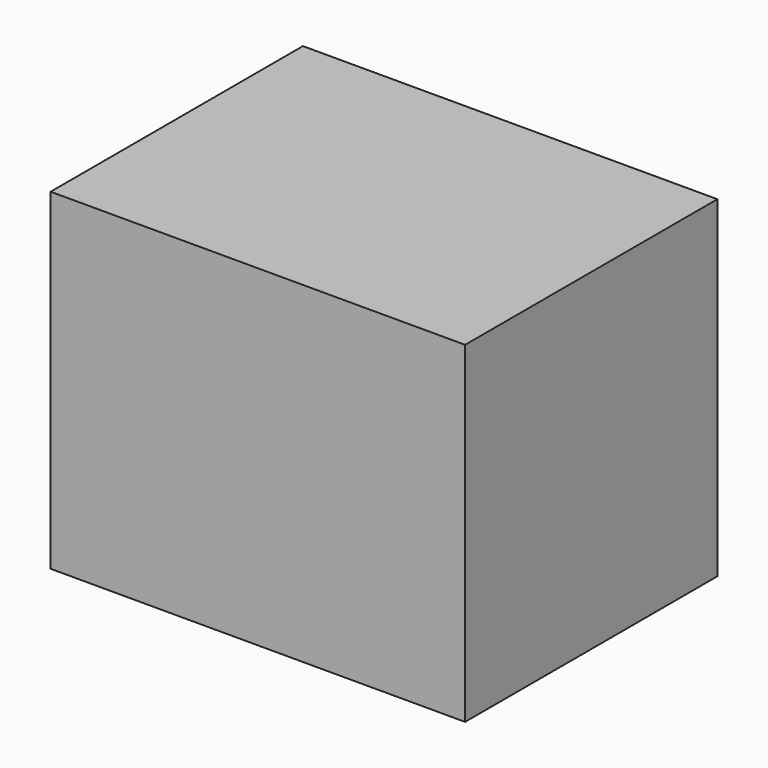
from build123d import *

# Parameters (mm, degrees)
F0_W     = 131.804712
F0_H     = 138.758264
F1_DEPTH = 173.228
F3_DEPTH = 11.684


with BuildPart() as f1:
    # F0 (on Right) → F1 (new body)
    with BuildSketch(Plane.YZ):
        with Locations((42.563114, -6.31338)):
            Rectangle(F0_W, F0_H)
    extrude(amount=F1_DEPTH)

    # F2 (on face) → F3 (join)
    with BuildSketch(Plane(origin=(0, 0, -75.692512), x_dir=(1, 0, 0), z_dir=(0, 0, -1))):
        Polygon((108.57549, -52.235217), (117.505729, -42.851768), (88.673443, -12.412787), (72.527371, -10.27096), (74.174926, -23.451431), align=None)
        Polygon((130.027175, -68.100274), (137.895701, -59.610553), (120.636091, -47.835302), (124.036072, -42.851768), (117.505729, -42.851768), (108.57549, -52.235217), (106.961355, -53.93127), (108.57549, -59.457818), (112.233534, -54.096028), align=None)
    extrude(amount=F3_DEPTH)


solid = f1.part
